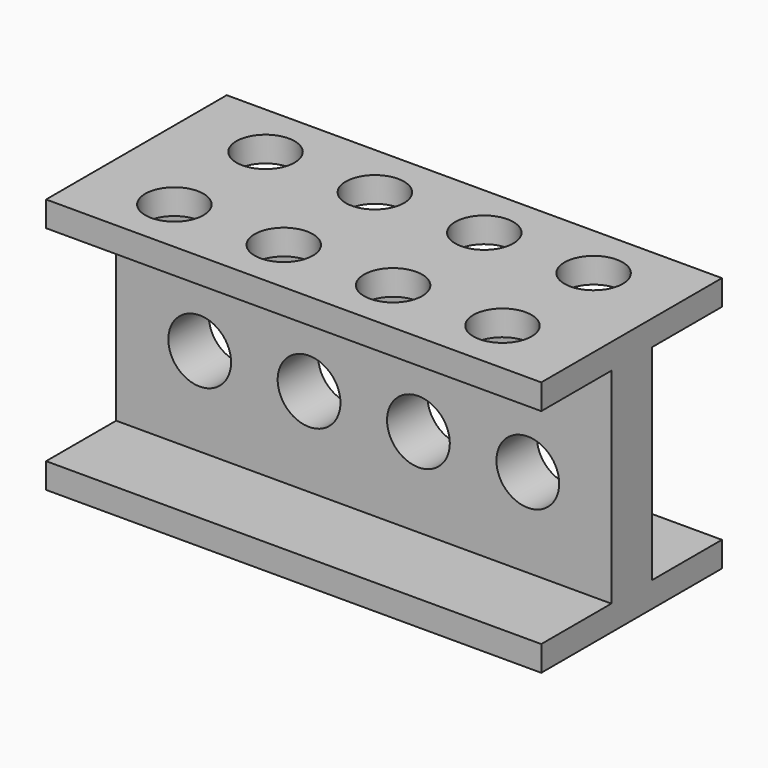
from build123d import *

# Parameters (mm, degrees)
F1_DEPTH = 22.3
F3_D     = 11.5
F4_DEPTH = 5
F5_DEPTH = 22.3


with BuildPart() as f1:
    # F0 (on Front) → F1 (new body, symmetric)
    with BuildSketch(Plane.XZ):
        Polygon((59.7, 25.25), (38.1, 25.25), (-38.1, 25.25), (-38.1, 20.25), (38.1, 20.25), (59.7, 20.25), align=None)
    extrude(amount=F1_DEPTH, both=True)

    # F3 (through all)
    with Locations(Plane.XY.offset(25.25)):
        with Locations((-21.6, 11.25), (0, 11.25), (21.6, 11.25), (21.6, -11.25), (0, -11.25), (-21.6, -11.25), (43.2, 11.25), (43.2, -11.25)):
            Hole(F3_D / 2)

    # F0 (on Front) → F4 (join, symmetric)
    with BuildSketch(Plane.XZ):
        with BuildLine():
            Line((38.1, 20.25), (-38.1, 20.25))
            Line((-38.1, 20.25), (-38.1, -2.75))
            Line((-38.1, -2.75), (-27.8, -2.75))
            ThreePointArc((-27.8, -2.75), (-21.6, 3.45), (-15.4, -2.75))
            Line((-15.4, -2.75), (-6.2, -2.75))
            ThreePointArc((-6.2, -2.75), (0, 3.45), (6.2, -2.75))
            Line((6.2, -2.75), (15.4, -2.75))
            ThreePointArc((15.4, -2.75), (21.6, 3.45), (27.8, -2.75))
            Line((27.8, -2.75), (37, -2.75))
            ThreePointArc((37, -2.75), (43.2, 3.45), (49.4, -2.75))
            Line((49.4, -2.75), (59.7, -2.75))
            Line((59.7, -2.75), (59.7, 20.25))
            Line((59.7, 20.25), (38.1, 20.25))
        make_face()
        with BuildLine():
            Line((-27.8, -2.75), (-38.1, -2.75))
            Line((-38.1, -2.75), (-38.1, -20.25))
            Line((-38.1, -20.25), (38.1, -20.25))
            Line((38.1, -20.25), (59.7, -20.25))
            Line((59.7, -20.25), (59.7, -2.75))
            Line((59.7, -2.75), (49.4, -2.75))
            ThreePointArc((49.4, -2.75), (43.2, -8.95), (37, -2.75))
            Line((37, -2.75), (27.8, -2.75))
            ThreePointArc((27.8, -2.75), (21.6, -8.95), (15.4, -2.75))
            Line((15.4, -2.75), (6.2, -2.75))
            ThreePointArc((6.2, -2.75), (0, -8.95), (-6.2, -2.75))
            Line((-6.2, -2.75), (-15.4, -2.75))
            ThreePointArc((-15.4, -2.75), (-21.6, -8.95), (-27.8, -2.75))
        make_face()
    extrude(amount=F4_DEPTH, both=True)

    # F0 (on Front) → F5 (join, symmetric)
    with BuildSketch(Plane.XZ):
        Polygon((38.1, -20.25), (-38.1, -20.25), (-38.1, -25.25), (38.1, -25.25), (59.7, -25.25), (59.7, -20.25), align=None)
    extrude(amount=F5_DEPTH, both=True)


solid = f1.part
